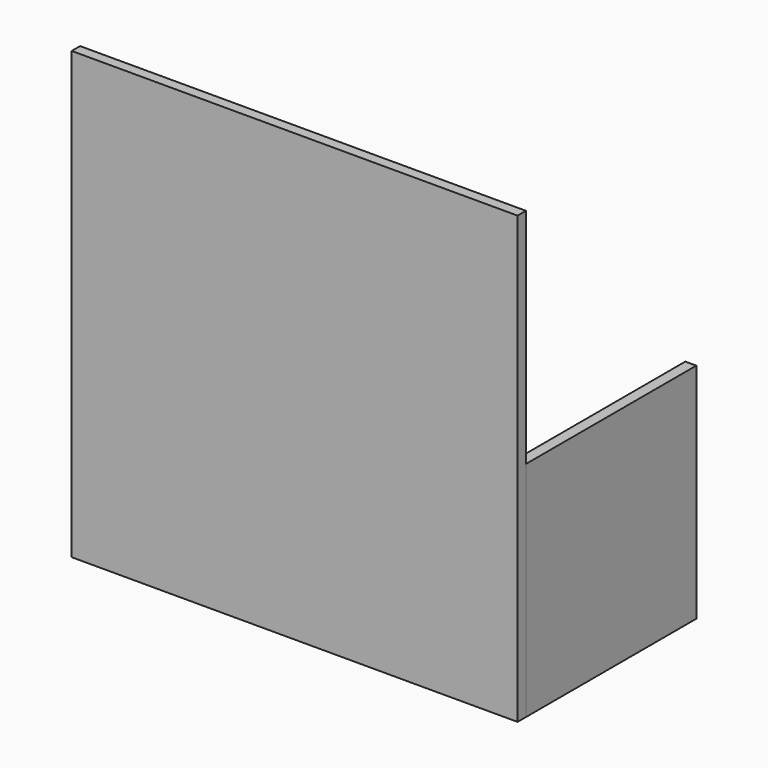
from build123d import *

# Parameters (mm, degrees)
F2_W     = 23.786694
F2_H     = 500.340388
F3_DEPTH = 500
F4_W     = 24.579943
F4_H     = 501.217544
F5_DEPTH = 500
F6_W     = 1000.297636
F6_H     = 23.511276
F7_DEPTH = 1000
F8_W     = 1000.206262
F8_H     = 494.088978
F9_DEPTH = 25


with BuildPart() as f3:
    # F2 (on face) → F3 (new body)
    with BuildSketch(Plane.XY):
        with Locations((-297.058418, 53.668119)):
            Rectangle(F2_W, F2_H)
    extrude(amount=F3_DEPTH)


with BuildPart() as f5:
    # F4 (on face) → F5 (new body)
    with BuildSketch(Plane.XY):
        with Locations((678.868323, 53.869456)):
            Rectangle(F4_W, F4_H)
    extrude(amount=F5_DEPTH)


with BuildPart() as f7:
    # F6 (on face) → F7 (new body)
    with BuildSketch(Plane.XY):
        with Locations((191.009477, -184.983678)):
            Rectangle(F6_W, F6_H)
    extrude(amount=F7_DEPTH)


with BuildPart() as f9:
    # F8 (on face) → F9 (new body)
    with BuildSketch(Plane.XY):
        with Locations((189.131901, 59.831932)):
            Rectangle(F8_W, F8_H)
    extrude(amount=F9_DEPTH)


solid = Compound([f3.part, f5.part, f7.part, f9.part])
